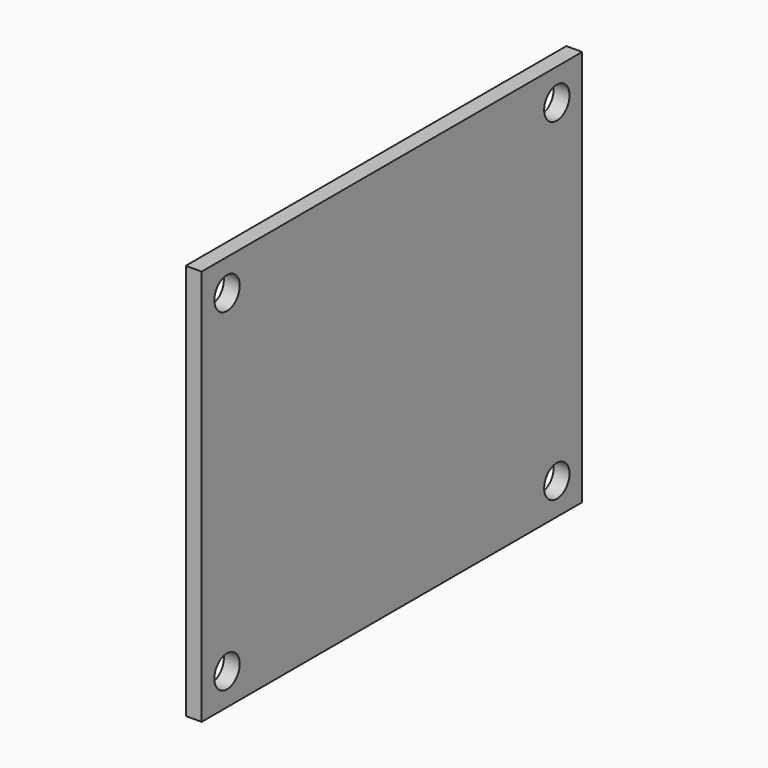
from build123d import *

# Parameters (mm, degrees)
F0_W     = 76.2
F0_H     = 63.5
F0_R     = 2.54
F1_DEPTH = 2.54


with BuildPart() as f1:
    # F0 (on Right) → F1 (new body)
    with BuildSketch(Plane.YZ):
        with Locations((38.1, 31.75)):
            Rectangle(F0_W, F0_H)
        with Locations((5.08, 5.08)):
            Circle(F0_R, mode=Mode.SUBTRACT)
        with Locations((71.12, 5.08)):
            Circle(F0_R, mode=Mode.SUBTRACT)
        with Locations((5.08, 58.42)):
            Circle(F0_R, mode=Mode.SUBTRACT)
        with Locations((71.12, 58.42)):
            Circle(F0_R, mode=Mode.SUBTRACT)
    extrude(amount=F1_DEPTH)


solid = f1.part
